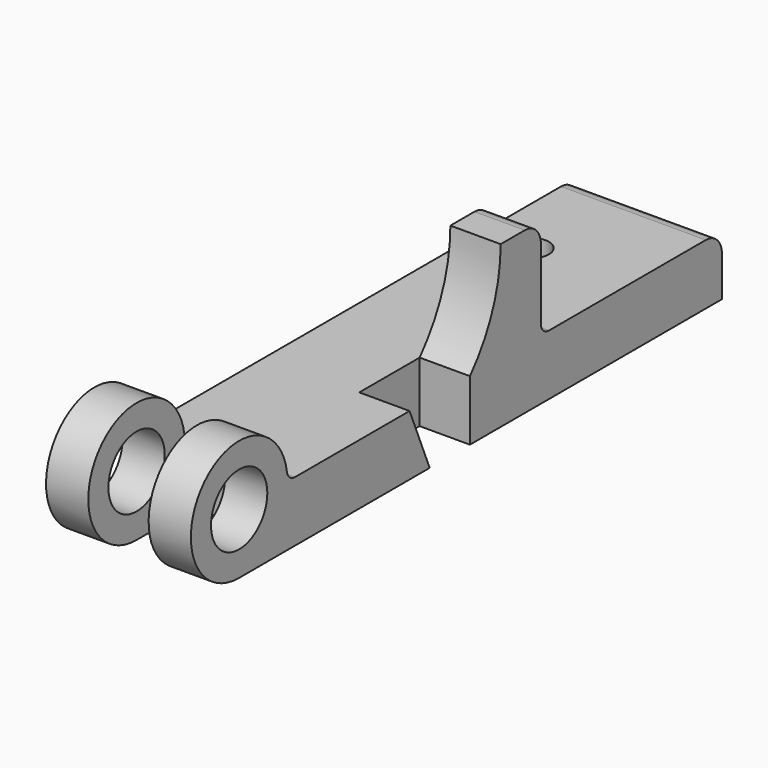
from build123d import *

# Parameters (mm, degrees)
F0_R      = 7
F1_DEPTH  = 28.8
F4_DEPTH  = 12
F6_DEPTH  = 10
F8_DEPTH  = 10
F9_R      = 3.4
F10_DEPTH = 12
F11_R     = 2
F12_R     = 4


with BuildPart() as f1:
    # F0 (on Right) → F1 (new body)
    with BuildSketch(Plane.YZ):
        with BuildLine():
            Line((120, 0), (12, 0))
            ThreePointArc((12, 0), (-8.4852813742, 8.4852813742), (0, -12))
            Line((0, -12), (120, -12))
            Line((120, -12), (120, 0))
        make_face()
        Circle(F0_R, mode=Mode.SUBTRACT)
    extrude(amount=F1_DEPTH)

    # F3 (on offset) → F4 (cut)
    with BuildSketch(Plane.YZ.offset(20.4)):
        with BuildLine():
            Line((14, -12), (14, 0))
            Line((14, 0), (12, 0))
            ThreePointArc((12, 0), (-8.4852813742, 8.4852813742), (0, -12))
            Line((0, -12), (14, -12))
        make_face()
    extrude(amount=-F4_DEPTH, mode=Mode.SUBTRACT)

    # F5 (on face) → F6 (join)
    with BuildSketch(Plane.YZ.offset(28.8)):
        with BuildLine():
            Line((65, 0), (75, 0))
            Line((75, 0), (75, 20))
            Line((75, 20), (65, 20))
            ThreePointArc((65, 20), (63.0248532563, 9.2952660561), (57.36, 0))
            Line((57.36, 0), (65, 0))
        make_face()
    extrude(amount=-F6_DEPTH)

    # F7 (on face) → F8 (cut, through all)
    with BuildSketch(Plane.YZ.offset(28.8)):
        Polygon((57.36, -12), (57.36, 0), (42.36, 0), (47.36, -12), align=None)
    extrude(amount=-F8_DEPTH, mode=Mode.SUBTRACT)

    # F9 (on Top) → F10 (cut, through all)
    with BuildSketch(Plane.XY):
        with Locations((9.4, 97)):
            Circle(F9_R)
    extrude(amount=-F10_DEPTH, mode=Mode.SUBTRACT)

    # F11
    f11_edges = [f1.edges().sort_by_distance(p)[0] for p in [
        (23.8, 75, 0),
        (24.6, 12, 0),
        (4.2, 12, 0),
    ]]
    fillet(f11_edges, radius=F11_R)

    # F12
    f12_edges = [f1.edges().sort_by_distance(p)[0] for p in [
        (23.8, 75, 20),
        (14.4, 120, 0),
    ]]
    fillet(f12_edges, radius=F12_R)


solid = f1.part
